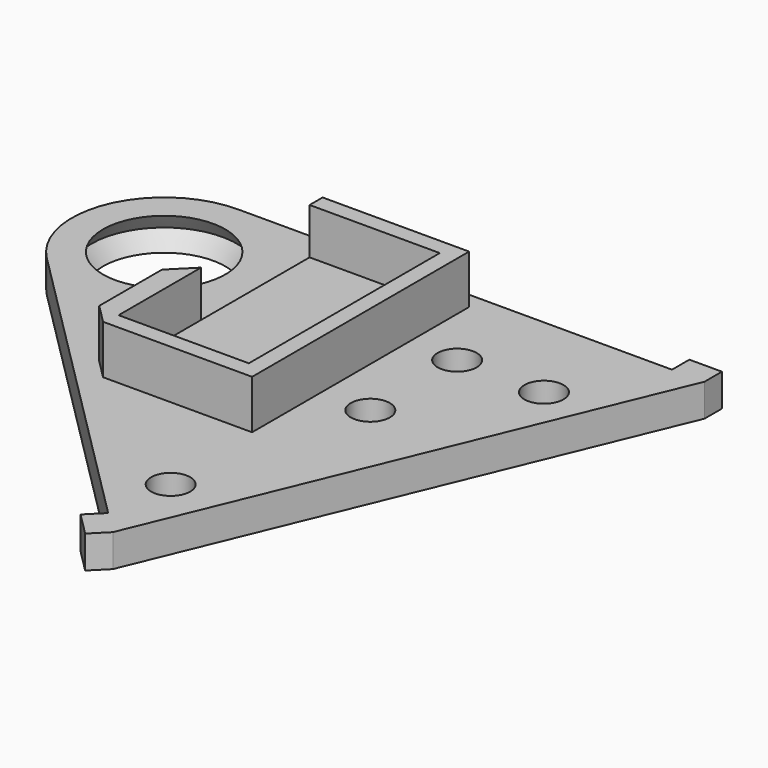
from build123d import *

# Parameters (mm, degrees)
SKETCH220_R     = 8
SKETCH220_R_2   = 1.8
PAD127056_DEPTH = 3
SKETCH185_R     = 1.5
PAD127021_DEPTH = 1.75
SKETCH184_W     = 22
SKETCH184_H     = 12
PAD127020_DEPTH = 22.5
PAD127023_DEPTH = 5


with BuildPart() as base:
    # Sketch220 → Pad127056 (new body)
    with BuildSketch(Plane(origin=(50, 160, -8.5), x_dir=(1, 0, 0), z_dir=(0, 0, 1))):
        with BuildLine():
            ThreePointArc((6.010433, -6.010382), (7.852969, 3.252826), (0, 8.5))
            Line((0, 8.5), (-40, 8.5))
            Line((-40, 8.5), (-40, 10.5))
            Line((-40, 10.5), (-43, 10.5))
            Line((-43, 10.5), (-43, 8.5))
            Line((-43, 8.5), (-24.395158, -36.415973))
            Line((-24.395158, -36.415973), (-22.980945, -37.830187))
            Line((-22.980945, -37.830187), (-20.859624, -35.708867))
            Line((-20.859624, -35.708867), (-22.273838, -34.294653))
            Line((6.010433, -6.010382), (-22.273838, -34.294653))
        make_face()
        Circle(SKETCH220_R, mode=Mode.SUBTRACT)
        with Locations((-27, 0)):
            Circle(SKETCH220_R_2, mode=Mode.SUBTRACT)
        with Locations((-27, -10)):
            Circle(SKETCH220_R_2, mode=Mode.SUBTRACT)
        with Locations((-23, -28)):
            Circle(SKETCH220_R_2, mode=Mode.SUBTRACT)
        with Locations((-35, 0)):
            Circle(SKETCH220_R_2, mode=Mode.SUBTRACT)
    extrude(amount=-PAD127056_DEPTH)


with BuildPart() as outerrace:
    # Sketch221 → Revolution010 (revolve)
    with BuildSketch(Plane(origin=(50, 160, -10), x_dir=(1, 0, 0), z_dir=(0, -1, 0))):
        Polygon((5.634953, 1.5), (6.685264, 0), (5.634953, -1.5), (8, -1.5), (8, 1.5), align=None)
    revolve(axis=Axis((50, 160, -10), (0, 0, 1)))


with BuildPart() as pad127021:
    # Sketch185 → Pad127021 (new body)
    with BuildSketch(Plane(origin=(35, 160, 26.5), x_dir=(0, 1, 0), z_dir=(0, 0, 1))):
        Polygon((5.5, 6), (-16.5, 6), (-20.5, 6), (-20.5, -6), (-16.5, -6), (5.5, -6), (9.5, -6), (9.5, 6), align=None)
        with Locations((7.25, 0)):
            Circle(SKETCH185_R, mode=Mode.SUBTRACT)
        with Locations((-18.25, 0)):
            Circle(SKETCH185_R, mode=Mode.SUBTRACT)
    extrude(amount=PAD127021_DEPTH)


with BuildPart() as servovisual:
    # Sketch184 → Pad127020 (new body)
    with BuildSketch(Plane(origin=(35, 160, 11.75), x_dir=(0, 1, 0), z_dir=(0, 0, 1))):
        with Locations((-5.5, 0)):
            Rectangle(SKETCH184_W, SKETCH184_H)
    extrude(amount=PAD127020_DEPTH)

    # Fusion004020023: union Pad127021
    add(pad127021.part)


with BuildPart() as servovisual_1:
    # Fusion004020023 placement: moved
    add(servovisual.part.moved(Location((0, 0, -20))))


with BuildPart() as fusion004020031:
    # Sketch187 → Pad127023 (new body)
    with BuildSketch(Plane(origin=(35, 160, -9), x_dir=(0, 1, 0), z_dir=(0, 0, 1))):
        Polygon((-18, 7.5), (7, 7.5), (7, -6), (-7, -6), (-9, -8), (-16.232233, -8), (-18, -6.232233), align=None)
    extrude(amount=PAD127023_DEPTH)

    # Cut007019029: cut ServoVisual
    add(servovisual_1.part, mode=Mode.SUBTRACT)

    # Fusion004020031: union Base, OuterRace
    add(base.part)
    add(outerrace.part)


with BuildPart() as part_mirroring014:
    # Part__Mirroring014: instance of Fusion004020031
    add(fusion004020031.part.mirror(Plane(origin=(0, 0, 0), x_dir=(0, -1, 0), z_dir=(1, 0, 0))))


solid = part_mirroring014.part
